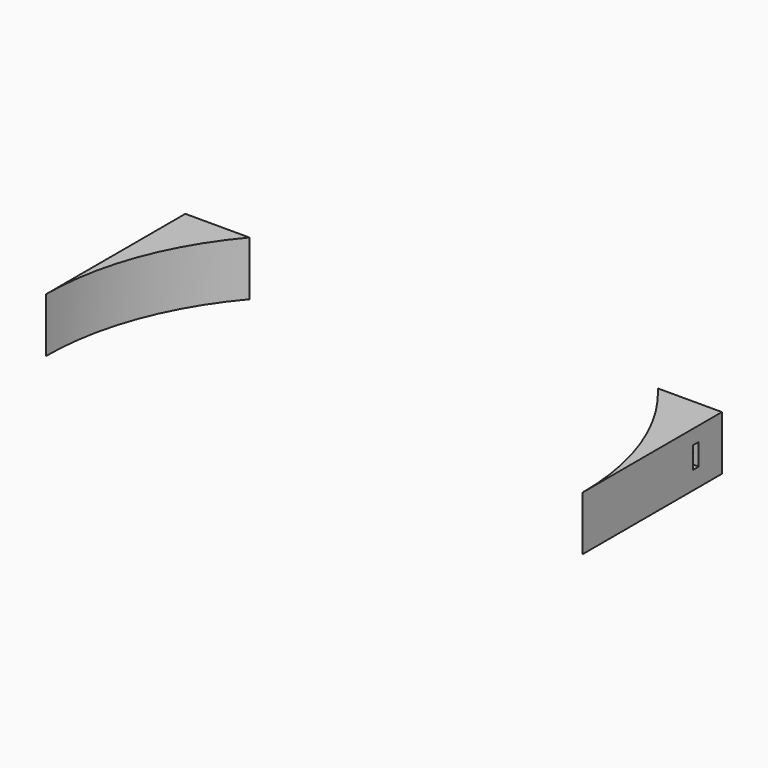
from build123d import *

# Parameters (mm, degrees)
CYLINDER510_R     = 1.5
CYLINDER510_DEPTH = 50
CYLINDER509_R     = 1.5
CYLINDER509_DEPTH = 50
BOX209_W          = 8
BOX209_H          = 2
BOX209_DEPTH      = 6
BOX208_W          = 8
BOX208_H          = 2
BOX208_DEPTH      = 6
CYLINDER485_R     = 74
CYLINDER485_DEPTH = 15
CYLINDER482_R     = 74
CYLINDER482_DEPTH = 15
BOX176_W          = 148
BOX176_H          = 48
BOX176_DEPTH      = 15


with BuildPart() as obj1:
    # Cylinder510 → Cylinder510 (new body)
    with BuildSketch(Plane(origin=(-71, 80, 24), x_dir=(1, 0, 0), z_dir=(0, -1, 0))):
        Circle(CYLINDER510_R)
    extrude(amount=CYLINDER510_DEPTH)


with BuildPart() as compound339:
    # Cylinder509 → Cylinder509 (new body)
    with BuildSketch(Plane(origin=(71, 80, 24), x_dir=(1, 0, 0), z_dir=(0, -1, 0))):
        Circle(CYLINDER509_R)
    extrude(amount=CYLINDER509_DEPTH)

    # Compound339: union obj1
    add(obj1.part)


with BuildPart() as krychle209:
    # Box209 → Box209 (new body)
    with BuildSketch(Plane(origin=(-75, 38, 21), x_dir=(1, 0, 0), z_dir=(0, 0, 1))):
        with Locations((4, 1)):
            Rectangle(BOX209_W, BOX209_H)
    extrude(amount=BOX209_DEPTH)


with BuildPart() as compound338:
    # Box208 → Box208 (new body)
    with BuildSketch(Plane(origin=(67, 38, 21), x_dir=(1, 0, 0), z_dir=(0, 0, 1))):
        with Locations((4, 1)):
            Rectangle(BOX208_W, BOX208_H)
    extrude(amount=BOX208_DEPTH)

    # Compound338: union Krychle209
    add(krychle209.part)


with BuildPart() as obj2:
    # Cylinder485 → Cylinder485 (new body)
    with BuildSketch(Plane.XY.offset(16)):
        Circle(CYLINDER485_R)
    extrude(amount=CYLINDER485_DEPTH)


with BuildPart() as obj3:
    # Cylinder482 → Cylinder482 (new body)
    with BuildSketch(Plane.XY.offset(16)):
        Circle(CYLINDER482_R)
    extrude(amount=CYLINDER482_DEPTH)


with BuildPart() as cut682:
    # Box176 → Box176 (new body)
    with BuildSketch(Plane(origin=(-74, 0, 16), x_dir=(1, 0, 0), z_dir=(0, 0, 1))):
        with Locations((74, 24)):
            Rectangle(BOX176_W, BOX176_H)
    extrude(amount=BOX176_DEPTH)

    # Cut185: cut obj3
    add(obj3.part, mode=Mode.SUBTRACT)

    # Cut188: cut obj2
    add(obj2.part, mode=Mode.SUBTRACT)

    # Cut681: cut Compound338
    add(compound338.part, mode=Mode.SUBTRACT)

    # Cut682: cut Compound339
    add(compound339.part, mode=Mode.SUBTRACT)


with BuildPart() as cut682_1:
    # Cut682 placement: moved
    add(cut682.part.moved(Location((0, 0, -2))))


solid = cut682_1.part
